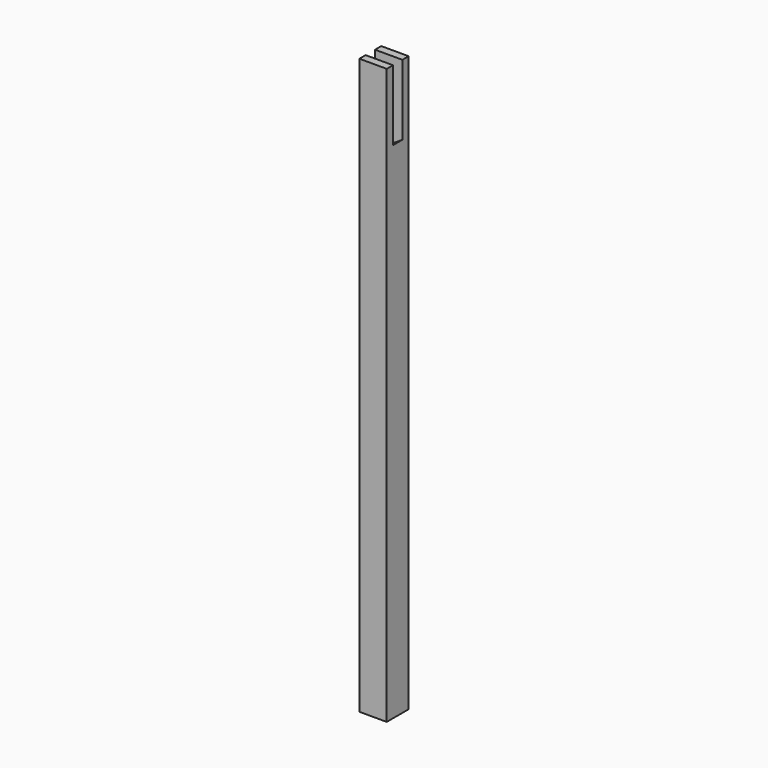
from build123d import *

# Parameters (mm, degrees)
F0_W     = 88.9
F0_H     = 88.9
F1_DEPTH = 1866.8492
F3_DEPTH = 19.05


with BuildPart() as f1:
    # F0 (on Top) → F1 (new body)
    with BuildSketch(Plane.XY):
        Rectangle(F0_W, F0_H)
    extrude(amount=F1_DEPTH)

    # F2 (on Front) → F3 (cut, symmetric)
    with BuildSketch(Plane.XZ):
        Polygon((44.45, 1638.2492), (44.45, 1866.8492), (-44.45, 1866.8492), (-44.45, 1581.066799), align=None)
    extrude(amount=F3_DEPTH, both=True, mode=Mode.SUBTRACT)


solid = f1.part
